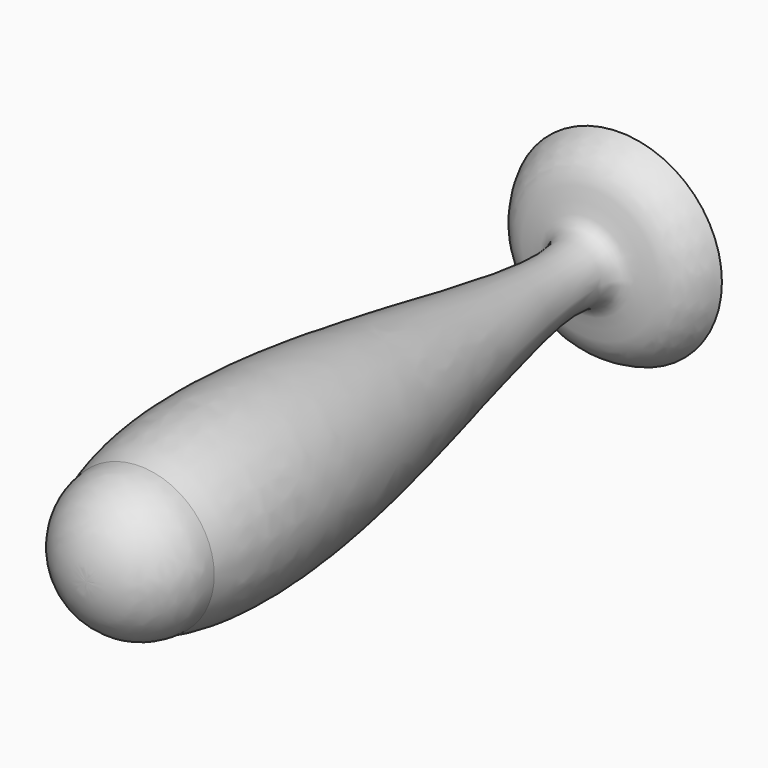
from build123d import *


with BuildPart() as f1:
    # F0 (on Top) → F1 (revolve)
    with BuildSketch(Plane.XY):
        with BuildLine():
            Line((-12.3229920864, 78.1941485287), (-8.5266279057, -8.5266279057))
            ThreePointArc((-8.5266279057, -8.5266279057), (-2.4973914929, -6.0292364128), (0, 0))
            add(Edge.make_bspline(
                [(0, 0), (5.6124632247, 21.827949211), (-17.9592709302, 79.1049386562), (-2.3745039944, 69.9656158686), (0, 76.2346759439)],
                knots=[0, 0, 0, 0, 0.7247868037, 1, 1, 1, 1], degree=3))
            ThreePointArc((0, 76.2346759439), (-6.0840886016, 77.7012224617), (-12.3229920864, 78.1941485287))
        make_face()
    revolve(axis=Axis((-10.424809996, 34.8337603115, 0), (0.0437349832, -0.9990431679, 0)))


solid = f1.part
